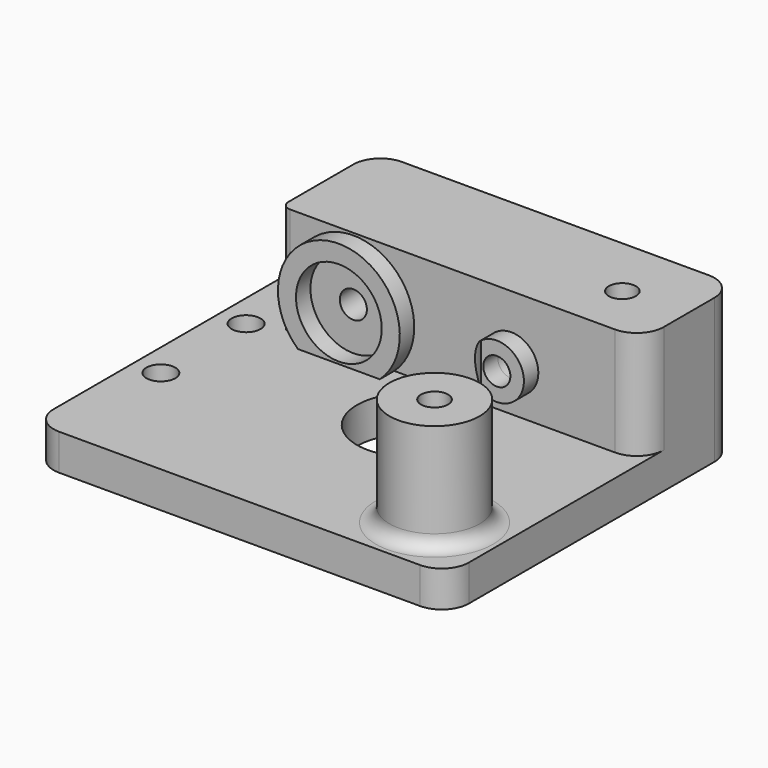
from build123d import *

# Parameters (mm, degrees)
SKETCH_R             = 1.6
SKETCH_R_2           = 6
PAD_DEPTH            = 4
SKETCH001_R          = 5
PAD001_DEPTH         = 12
SKETCH002_R          = 4.7
POCKET_DEPTH         = 13.001
SKETCH004_R          = 1.5
POCKET002_DEPTH      = 13.001
SKETCH005_R          = 1.5
POCKET003_DEPTH      = 4.001
POCKET003_DEPTH_BACK = 12.001
SKETCH006_R          = 4.7
SKETCH006_R_2        = 2.2
PAD002_DEPTH         = 6
SKETCH007_R          = 3
SKETCH007_R_2        = 1.5
PAD003_DEPTH         = 2
PAD003_DEPTH_BACK    = 2
SKETCH003_R          = 4.75
PAD004_DEPTH         = 2
SKETCH008_R          = 6.25
POCKET004_DEPTH      = 12.001
FILLET_R             = 1.5
FILLET001_R          = 3
FILLET002_R          = 1


with BuildPart() as part:
    # Sketch → Pad (new body)
    with BuildSketch(Plane.XY):
        Polygon((0, 20), (-26, 20), (-26, 0), (-26, -20), (0, -20), (20, -20), (20, 0), (20, 20), align=None)
        with Locations((-23, 5.9)):
            Circle(SKETCH_R, mode=Mode.SUBTRACT)
        with Locations((-23, -5.9)):
            Circle(SKETCH_R, mode=Mode.SUBTRACT)
        Circle(SKETCH_R_2, mode=Mode.SUBTRACT)
    extrude(amount=-PAD_DEPTH)

    # Sketch001 → Pad001 (join)
    with BuildSketch(Plane.XY):
        with Locations((13, -13)):
            Circle(SKETCH001_R)
        Polygon((0, 20), (20, 20), (20, 7), (0, 7), (-20, 7), (-20, 20), align=None)
    extrude(amount=PAD001_DEPTH)

    # Sketch002 (on DatumPlane) → Pocket (cut, through all)
    with BuildSketch(Plane.XZ.offset(-7)):
        with Locations((5.5, 5)):
            Circle(SKETCH002_R)
    extrude(amount=-POCKET_DEPTH, mode=Mode.SUBTRACT)

    # Sketch004 (on DatumPlane) → Pocket002 (cut, through all)
    with BuildSketch(Plane.XZ.offset(-7)):
        with Locations((-12, 5)):
            Circle(SKETCH004_R)
    extrude(amount=-POCKET002_DEPTH, mode=Mode.SUBTRACT)

    # Sketch005 → Pocket003 (cut, two sides)
    with BuildSketch(Plane.XY) as pocket003_sk:
        with Locations((13, -13)):
            Circle(SKETCH005_R)
        with Locations((13, 13)):
            Circle(SKETCH005_R)
    extrude(amount=-POCKET003_DEPTH, mode=Mode.SUBTRACT)
    extrude(pocket003_sk.sketch, amount=POCKET003_DEPTH_BACK, mode=Mode.SUBTRACT)

    # Sketch006 (on DatumPlane) → Pad002 (join)
    with BuildSketch(Plane.XZ.offset(-7)):
        with Locations((5.5, 5)):
            Circle(SKETCH006_R)
        with Locations((5.5, 5)):
            Circle(SKETCH006_R_2, mode=Mode.SUBTRACT)
    extrude(amount=-PAD002_DEPTH)

    # Sketch007 (on DatumPlane) → Pad003 (join, two sides)
    with BuildSketch(Plane.XZ.offset(-7)) as pad003_sk:
        with Locations((5.5, 5)):
            Circle(SKETCH007_R)
        with Locations((5.5, 5)):
            Circle(SKETCH007_R_2, mode=Mode.SUBTRACT)
    extrude(amount=PAD003_DEPTH)
    extrude(pad003_sk.sketch, amount=-PAD003_DEPTH_BACK)

    # Sketch003 (on DatumPlane) → Pad004 (join)
    with BuildSketch(Plane.XZ.offset(-7)):
        with BuildLine():
            ThreePointArc((-7.465411, 0), (-12, 11.75), (-16.534589, 0))
            Line((-16.534589, 0), (-7.465411, 0))
        make_face()
        with Locations((-12, 5)):
            Circle(SKETCH003_R, mode=Mode.SUBTRACT)
    extrude(amount=PAD004_DEPTH)

    # Sketch008 → Pocket004 (cut, through all)
    with BuildSketch(Plane.XY):
        Circle(SKETCH008_R)
    extrude(amount=POCKET004_DEPTH, mode=Mode.SUBTRACT)

    # Fillet
    fillet_edges = [part.edges().sort_by_distance(p)[0] for p in [
        (8, -13, 0),
    ]]
    fillet(fillet_edges, radius=FILLET_R)

    # Fillet001
    fillet001_edges = [part.edges().sort_by_distance(p)[0] for p in [
        (-26, -20, -2),
        (20, -20, -2),
        (20, 20, -2),
        (-26, 20, -2),
        (20, 7, 6),
        (-20, 20, 6),
    ]]
    fillet(fillet001_edges, radius=FILLET001_R)

    # Fillet002
    fillet002_edges = [part.edges().sort_by_distance(p)[0] for p in [
        (-20, 7, 6),
    ]]
    fillet(fillet002_edges, radius=FILLET002_R)


solid = part.part
